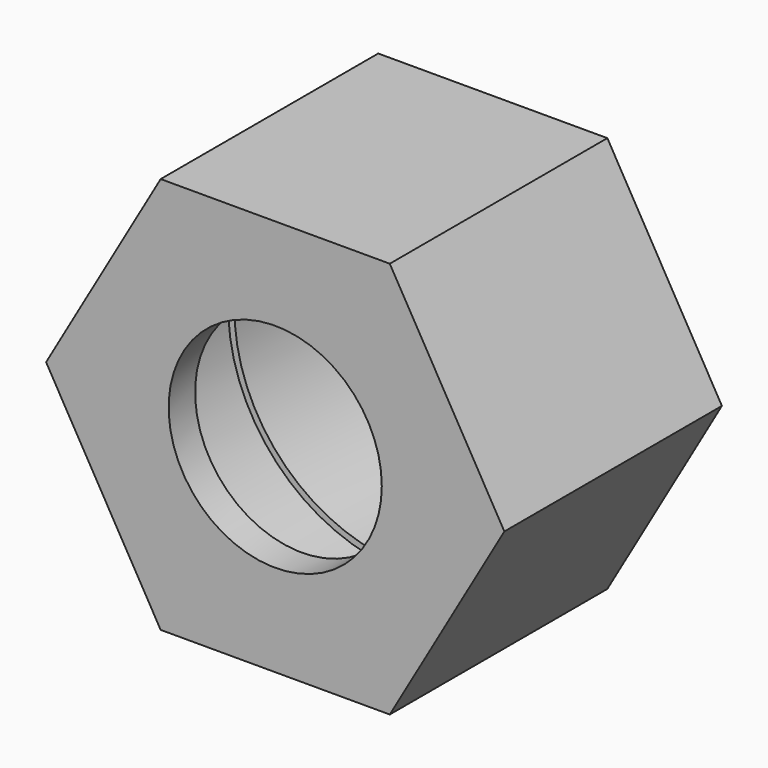
from build123d import *

# Parameters (mm, degrees)
F1_DEPTH = 18.5
F2_R     = 7.25
F3_DEPTH = 18.501


with BuildPart() as f1:
    # F0 (on Front) → F1 (new body)
    with BuildSketch(Plane.XZ):
        Polygon((7.794229, 13.5), (-7.794229, 13.5), (-15.588457, 0), (-7.794229, -13.5), (7.794229, -13.5), (15.588457, 0), align=None)
    extrude(amount=F1_DEPTH)

    # F2 (on face) → F3 (cut, through all)
    with BuildSketch(Plane.XZ.offset(18.5)):
        Circle(F2_R)
    extrude(amount=-F3_DEPTH, mode=Mode.SUBTRACT)

    # F4 (on Right) → F5 (revolve, cut)
    with BuildSketch(Plane.YZ):
        Polygon((-16.25, 0), (0, 0), (0, 11.577), (-7.5, 11.577), (-7.5, 12), (-16.25, 12), align=None)
    revolve(axis=Axis((0, -8.125, 0), (0, 1, 0)), mode=Mode.SUBTRACT)


solid = f1.part
